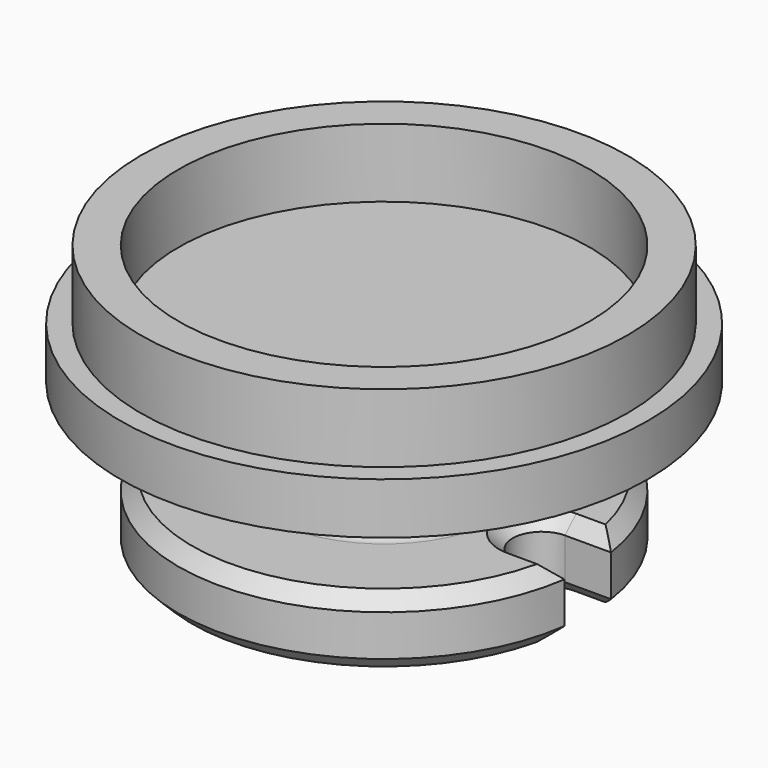
from build123d import *

# Parameters (mm, degrees)
F3_DEPTH = 25
F4_SIZE  = 2
F5_R     = 2


with BuildPart() as f1:
    # F0 (on Front) → F1 (revolve)
    with BuildSketch(Plane.XZ):
        Polygon((0, 22), (0, 0), (30, 0), (30, 10), (15, 10), (15, 22), align=None)
    revolve(axis=Axis((0, 0, 11), (0, 0, -1)))

    # F2 (on Top) → F3 (cut)
    with BuildSketch(Plane.XY):
        with BuildLine():
            ThreePointArc((23, -4.25), (26.005204, -3.005204), (27.25, 0))
            ThreePointArc((27.25, 0), (26.005204, 3.005204), (23, 4.25))
            ThreePointArc((23, 4.25), (18.75, 0), (23, -4.25))
        make_face()
        with BuildLine():
            ThreePointArc((23, 4.25), (26.005204, 3.005204), (27.25, 0))
            ThreePointArc((27.25, 0), (26.005204, -3.005204), (23, -4.25))
            Line((23, -4.25), (43, -4.25))
            Line((43, -4.25), (43, 4.25))
            Line((43, 4.25), (23, 4.25))
        make_face()
    extrude(amount=F3_DEPTH, mode=Mode.SUBTRACT)

    # F4
    f4_edges = [f1.edges().sort_by_distance(p)[0] for p in [
        (-30, 0, 0),
        (26.348716, -4.25, 0),
        (18.75, 0, 0),
        (-30, 0, 10),
        (18.75, 0, 10),
    ]]
    chamfer(f4_edges, length=F4_SIZE)

    # F5
    f5_edges = [f1.edges().sort_by_distance(p)[0] for p in [
        (-15, 0, 10),
    ]]
    fillet(f5_edges, radius=F5_R)

    # F0 (on Front) → F6 (revolve)
    with BuildSketch(Plane.XZ):
        Polygon((0, 29.5), (0, 22), (15, 22), (38.5, 22), (38.5, 29.5), (35.5, 29.5), (35.5, 39.5), (30, 39.5), (30, 29.5), align=None)
    revolve(axis=Axis((0, 0, 11), (0, 0, -1)))


solid = f1.part
